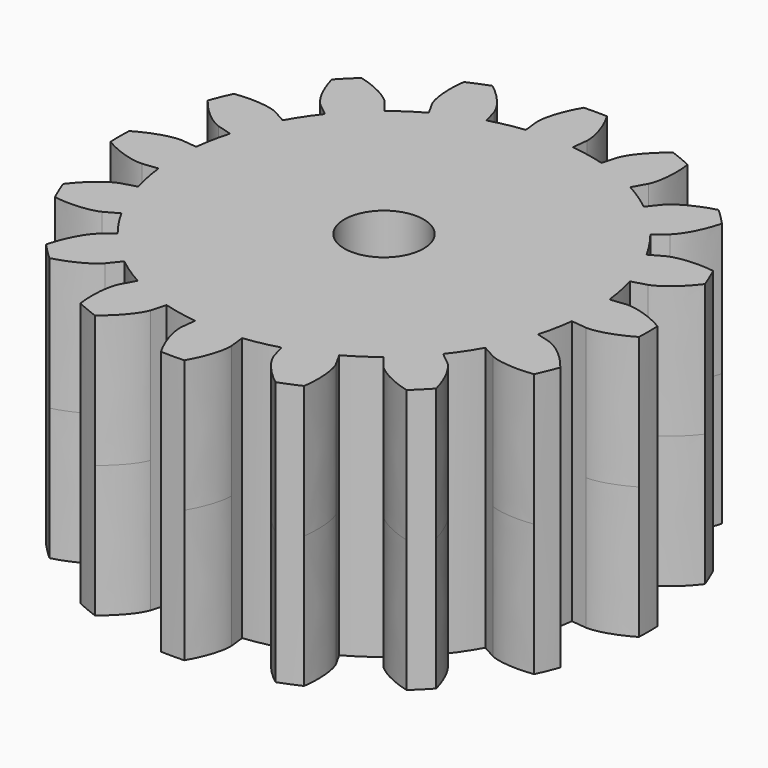
from build123d import *

# Parameters (mm, degrees)
F1_DEPTH = 5
F3_COUNT = 16
F4_R     = 1.5
F5_DEPTH = 10
F6_ANGLE = -6.478958292


with BuildPart() as f1:
    # F0 (on Top) → F1 (new body, symmetric)
    with BuildSketch(Plane.XY):
        with BuildLine():
            ThreePointArc((7.6744632757, 1.7658531666), (-7.8247051629, -0.8886017609), (7.874999935, 0))
            ThreePointArc((7.874999935, 0), (7.8247051629, 0.8886017609), (7.6744632757, 1.7658531666))
        make_face()
        with BuildLine():
            ThreePointArc((7.6744632757, 1.7658531666), (7.8247051629, 0.8886017609), (7.874999935, 0))
            Line((7.874999935, 0), (8.45723352, 0))
            add(Edge.make_bspline(
                [(8.45723352, 0), (8.4623747717, 0.0001409411), (8.4764207034, 0.0005259931), (8.5317150175, 0.0057871315), (8.6173203872, 0.0198763265), (8.7380971976, 0.0475742516), (8.8900570045, 0.0930542209), (9.0720561228, 0.1605652826), (9.2814867082, 0.2539519761), (9.5157032938, 0.3775259026), (9.7543416854, 0.5221517353), (9.9146836993, 0.6365730106), (9.9886910783, 0.6900762205)],
                knots=[0, 0, 0, 0, 0.0334557694, 0.09140137, 0.1662086646, 0.2547217991, 0.3550862364, 0.4660432834, 0.5866663025, 0.7162362042, 0.854173894, 0.9721868765, 0.9721868765, 0.9721868765, 0.9721868765], degree=3))
            ThreePointArc((9.9886910783, 0.6900762205), (9.9485537098, 1.1297936677), (9.8890687968, 1.567313938))
            add(Edge.make_bspline(
                [(8.2418702983, 1.8964105036), (8.2469122321, 1.8974260017), (8.2606868268, 1.9002003491), (8.3157528058, 1.907472124), (8.4023375323, 1.9129374578), (8.5262496177, 1.9130272869), (8.684537988, 1.9027802204), (8.8770408685, 1.8777989574), (9.1020789052, 1.8337520888), (9.3580408113, 1.7658446011), (9.6230325033, 1.6784128185), (9.804948704, 1.6028596214), (9.8890687968, 1.567313938)],
                knots=[0, 0, 0, 0, 0.0334557694, 0.09140137, 0.1662086646, 0.2547217991, 0.3550862364, 0.4660432834, 0.5866663025, 0.7162362042, 0.854173894, 0.9721868765, 0.9721868765, 0.9721868765, 0.9721868765], degree=3))
            Line((8.2418702983, 1.8964105036), (7.6744632757, 1.7658531666))
        make_face()
    extrude(amount=F1_DEPTH, both=True)

    # F3: F1 ×16 about axis
    f3_axis = Axis((0, 0, 13.5418092832), (0, 0, 1))


with BuildPart() as f1_1:
    add(f1.part)
    for i in range(1, F3_COUNT):
        add(f1.part.rotate(f3_axis, i * 360 / F3_COUNT))

    # F4 (on face) → F5 (cut, through all)
    with BuildSketch(Plane.XY.offset(5)):
        Circle(F4_R)
    extrude(amount=-F5_DEPTH, mode=Mode.SUBTRACT)


with BuildPart() as f1_2:
    # F6: moved
    add(f1_1.part.rotate(Axis((0, 0, 13.5418092832), (0, 0, 1)), F6_ANGLE))


solid = f1_2.part
